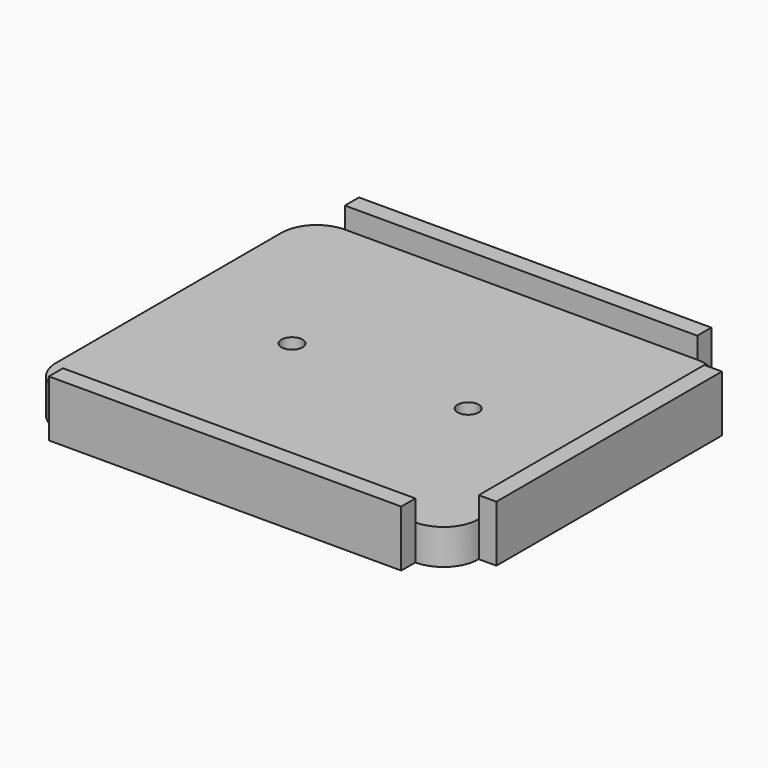
from build123d import *

# Parameters (mm, degrees)
F1_DEPTH = 6.35
F3_DEPTH = 6.351
F4_W     = 63.5
F4_H     = 3.175
F4_W_2   = 3.175
F4_H_2   = 50.8
F5_DEPTH = 10.16


with BuildPart() as f1:
    # F0 (on Top) → F1 (new body)
    with BuildSketch(Plane.XY):
        with BuildLine():
            ThreePointArc((0, 6.35), (1.859872, 1.859872), (6.35, 0))
            Line((6.35, 0), (69.85, 0))
            ThreePointArc((69.85, 0), (74.340128, 1.859872), (76.2, 6.35))
            Line((76.2, 6.35), (76.2, 57.15))
            ThreePointArc((76.2, 57.15), (74.340128, 61.640128), (69.85, 63.5))
            Line((69.85, 63.5), (6.35, 63.5))
            ThreePointArc((6.35, 63.5), (1.859872, 61.640128), (0, 57.15))
            Line((0, 57.15), (0, 6.35))
        make_face()
    extrude(amount=F1_DEPTH)

    # F2 (on face) → F3 (cut, through all)
    with BuildSketch(Plane.XY.offset(6.35)):
        with BuildLine():
            ThreePointArc((24.13, 31.75), (22.225, 33.655), (20.32, 31.75))
            Line((20.32, 31.75), (22.225, 31.75))
            Line((22.225, 31.75), (24.13, 31.75))
        make_face()
        with BuildLine():
            ThreePointArc((55.88, 31.75), (53.975, 33.655), (52.07, 31.75))
            Line((52.07, 31.75), (53.975, 31.75))
            Line((53.975, 31.75), (55.88, 31.75))
        make_face()
        with BuildLine():
            Line((53.975, 31.75), (52.07, 31.75))
            ThreePointArc((52.07, 31.75), (53.975, 29.845), (55.88, 31.75))
            Line((55.88, 31.75), (53.975, 31.75))
        make_face()
        with BuildLine():
            Line((22.225, 31.75), (20.32, 31.75))
            ThreePointArc((20.32, 31.75), (22.225, 29.845), (24.13, 31.75))
            Line((24.13, 31.75), (22.225, 31.75))
        make_face()
    extrude(amount=-F3_DEPTH, mode=Mode.SUBTRACT)

    # F4 (on face) → F5 (join)
    with BuildSketch(Plane(origin=(0, 0, 0), x_dir=(1, 0, 0), z_dir=(0, 0, -1))):
        with Locations((38.1, 1.5875)):
            Rectangle(F4_W, F4_H)
        with Locations((77.7875, -31.75)):
            Rectangle(F4_W_2, F4_H_2)
        with Locations((38.1, -65.0875)):
            Rectangle(F4_W, F4_H)
    extrude(amount=-F5_DEPTH)


solid = f1.part
